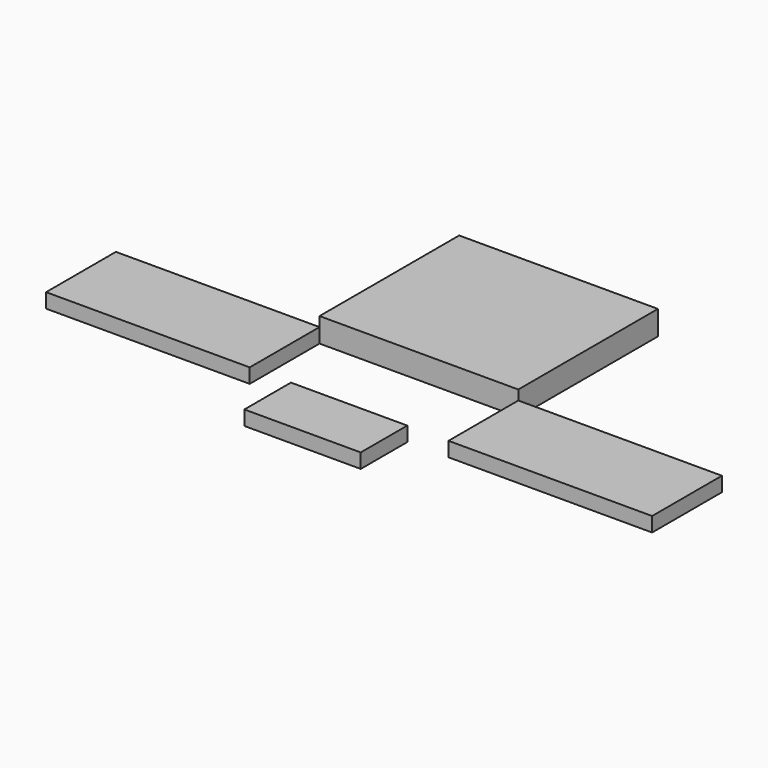
from build123d import *

# Parameters (mm, degrees)
F0_W     = 1041.4
F0_H     = 914.4
F1_DEPTH = 127
F3_START = -50.8
F2_W     = 1066.8
F2_H     = 457.2
F3_DEPTH = 76.2
F5_START = -50.8
F4_W     = 609.6
F4_H     = 304.8
F5_DEPTH = 76.2


with BuildPart() as f1:
    # F0 (on Top) → F1 (new body)
    with BuildSketch(Plane.XY):
        with Locations((520.7, 457.2)):
            Rectangle(F0_W, F0_H)
    extrude(amount=F1_DEPTH)


with BuildPart() as f3:
    # F2 (on face) → F3 (new body)
    with BuildSketch(Plane.XY.offset(127).offset(F3_START)):
        with Locations((-533.4, -228.6)):
            Rectangle(F2_W, F2_H)
    extrude(amount=-F3_DEPTH)


with BuildPart() as f3b:
    # F2 (on face) → F3, piece 2 (new body)
    with BuildSketch(Plane.XY.offset(127).offset(F3_START)):
        with Locations((1574.8, -228.6)):
            Rectangle(F2_W, F2_H)
    extrude(amount=-F3_DEPTH)


with BuildPart() as f5:
    # F4 (on face) → F5 (new body)
    with BuildSketch(Plane.XY.offset(127).offset(F5_START)):
        with Locations((520.7, -609.6)):
            Rectangle(F4_W, F4_H)
    extrude(amount=-F5_DEPTH)


solid = Compound([f1.part, f3.part, f3b.part, f5.part])
